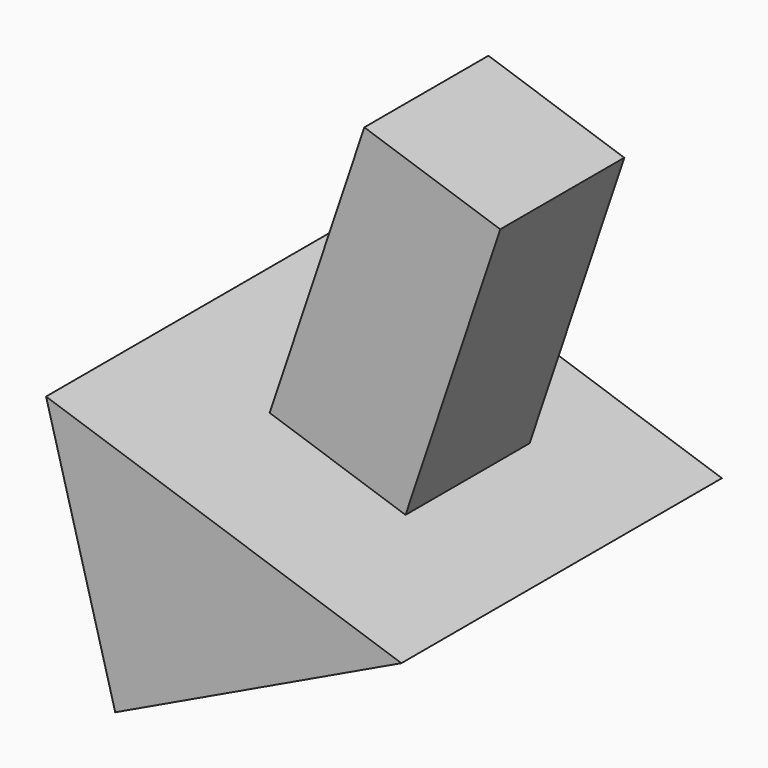
from build123d import *

# Parameters (mm, degrees)
F1_DEPTH = 81.026
F2_W     = 28.9863510989
F2_H     = 31.3605703413
F3_DEPTH = 60.198


with BuildPart() as f1:
    # F0 (on Front) → F1 (new body)
    with BuildSketch(Plane.XZ):
        Polygon((-12.2977383435, 51.6691952944), (1.6879233299, 0), (59.5596246421, 27.5620631874), align=None)
    extrude(amount=F1_DEPTH)

    # F2 (on face) → F3 (join)
    with BuildSketch(Plane(origin=(14.3365736593, 0, 42.733759156), x_dir=(0.9480692853, 0, -0.3180638776), z_dir=(0.3180638776, 0, 0.9480692853))):
        with Locations((9.7663637716, -36.5160163492)):
            Rectangle(F2_W, F2_H)
    extrude(amount=F3_DEPTH)


solid = f1.part
